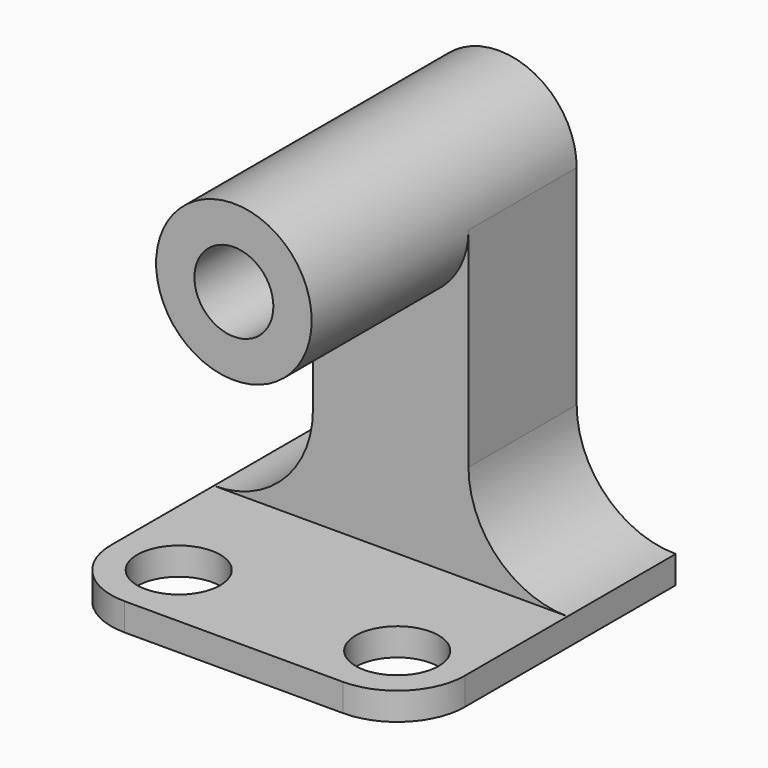
from build123d import *

# Parameters (mm, degrees)
F0_W     = 29.2275138199
F0_H     = 23.781274911
F1_DEPTH = 25.4
F2_R     = 14.61375691
F2_R_2   = 7.4161763195
F3_DEPTH = 17.018
F4_W     = 66.4506405592
F4_H     = 5.1697115414
F5_DEPTH = 36.83
F6_R     = 12.7
F7_R     = 7.792205292
F8_DEPTH = 5.1707115414
F9_DEPTH = 19.812


with BuildPart() as f1:
    # F0 (on Front) → F1 (new body)
    with BuildSketch(Plane.XZ):
        with BuildLine():
            Line((7.4161763195, 31.5062142909), (14.61375691, 31.5062142909))
            ThreePointArc((14.61375691, 31.5062142909), (0, 46.1199712008), (-14.61375691, 31.5062142909))
            Line((-14.61375691, 31.5062142909), (-7.4161763195, 31.5062142909))
            ThreePointArc((-7.4161763195, 31.5062142909), (0, 38.9223906104), (7.4161763195, 31.5062142909))
        make_face()
        with BuildLine():
            Line((14.61375691, -7.7249393798), (14.61375691, -31.5062142909))
            Line((14.61375691, -31.5062142909), (33.2253202796, -31.5062142909))
            Line((33.2253202796, -31.5062142909), (33.2253202796, -26.3365027495))
            ThreePointArc((33.2253202796, -26.3365027495), (20.0649576124, -20.885302047), (14.61375691, -7.7249393798))
        make_face()
        with BuildLine():
            Line((-14.61375691, -7.7249393798), (14.61375691, -7.7249393798))
            Line((14.61375691, -7.7249393798), (14.61375691, 31.5062142909))
            ThreePointArc((14.61375691, 31.5062142909), (0, 16.8924573809), (-14.61375691, 31.5062142909))
            Line((-14.61375691, 31.5062142909), (-14.61375691, -7.7249393798))
        make_face()
        with BuildLine():
            Line((-33.2253202796, -31.5062142909), (-14.61375691, -31.5062142909))
            Line((-14.61375691, -31.5062142909), (-14.61375691, -7.7249393798))
            ThreePointArc((-14.61375691, -7.7249393798), (-20.0649576124, -20.885302047), (-33.2253202796, -26.3365027495))
            Line((-33.2253202796, -26.3365027495), (-33.2253202796, -31.5062142909))
        make_face()
        with BuildLine():
            ThreePointArc((-14.61375691, 31.5062142909), (0, 16.8924573809), (14.61375691, 31.5062142909))
            Line((14.61375691, 31.5062142909), (7.4161763195, 31.5062142909))
            ThreePointArc((7.4161763195, 31.5062142909), (0, 24.0900379714), (-7.4161763195, 31.5062142909))
            Line((-7.4161763195, 31.5062142909), (-14.61375691, 31.5062142909))
        make_face()
        with Locations((0, -19.6155768353)):
            Rectangle(F0_W, F0_H)
    extrude(amount=F1_DEPTH)

    # F2 (on face) → F3 (join)
    with BuildSketch(Plane.XZ.offset(25.4)):
        with Locations((0, 31.5062142909)):
            Circle(F2_R)
        with Locations((0, 31.5062142909)):
            Circle(F2_R_2, mode=Mode.SUBTRACT)
    extrude(amount=F3_DEPTH)

    # F4 (on face) → F5 (join)
    with BuildSketch(Plane.XZ.offset(25.4)):
        with Locations((0, -28.9213585202)):
            Rectangle(F4_W, F4_H)
    extrude(amount=F5_DEPTH)

    # F6
    f6_edges = [f1.edges().sort_by_distance(p)[0] for p in [
        (-33.22532, -62.23, -28.921359),
        (33.22532, -62.23, -28.921359),
    ]]
    fillet(f6_edges, radius=F6_R)

    # F7 (on face) → F8 (cut, through all)
    with BuildSketch(Plane.XY.offset(-26.3365027495)):
        with Locations((-20.5253202796, -49.53)):
            Circle(F7_R)
        with Locations((20.5253202796, -49.53)):
            Circle(F7_R)
    extrude(amount=-F8_DEPTH, mode=Mode.SUBTRACT)

    # F9 (add, through all): a face of the model
    f9_faces = [f1.faces().sort_by_distance(p)[0] for p in [
        (-14.2004174456, -42.418, 31.5062142909),
    ]]
    extrude(f9_faces, amount=F9_DEPTH)


solid = f1.part
